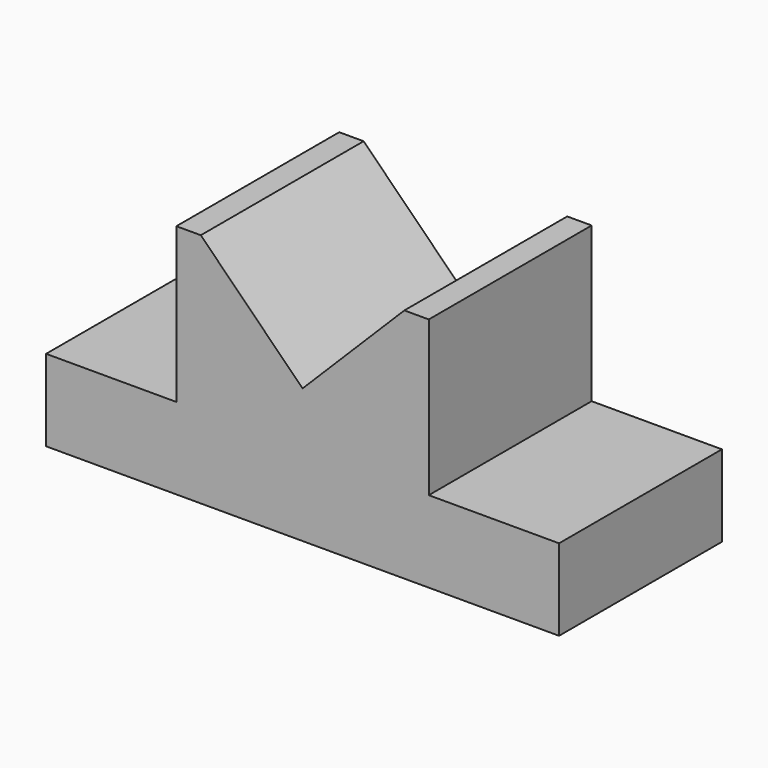
from build123d import *

# Parameters (mm, degrees)
F1_DEPTH = 25


with BuildPart() as f1:
    # F0 (on Front) → F1 (new body, symmetric)
    with BuildSketch(Plane.XZ):
        Polygon((-63, 28.550819), (-63, 8.550819), (63, 8.550819), (63, 28.550819), (31, 28.550819), (31, 66.550819), (25, 66.550819), (0, 41.550819), (-25, 66.550819), (-31, 66.550819), (-31, 28.550819), align=None)
    extrude(amount=F1_DEPTH, both=True)


solid = f1.part
